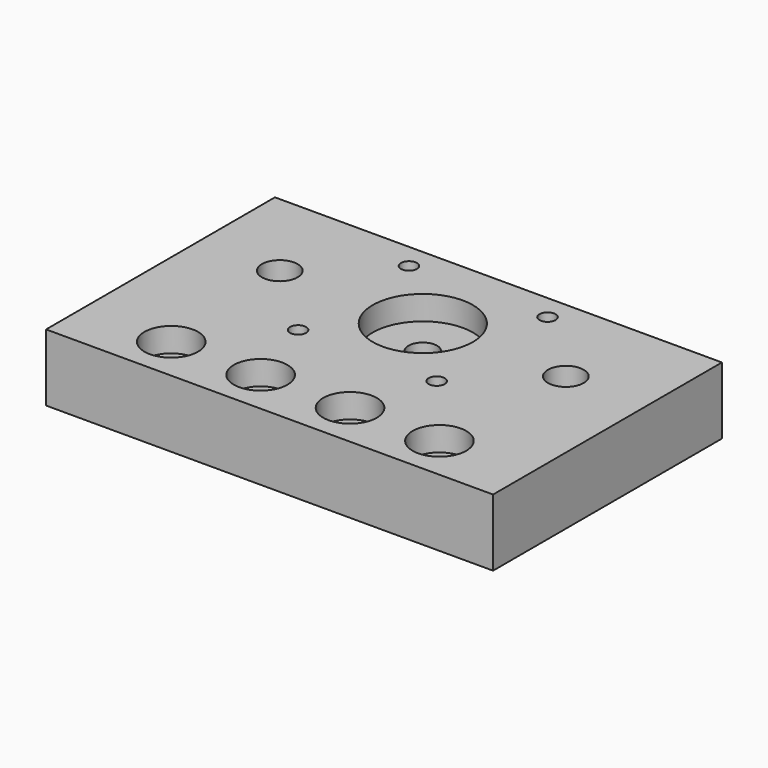
from build123d import *

# Parameters (mm, degrees)
SKETCH_W        = 100
SKETCH_H        = 64
SKETCH_R        = 3.2
SKETCH_R_2      = 1.8
SKETCH_R_3      = 4
PAD_DEPTH       = 15
SKETCH001_R     = 11.2
SKETCH001_R_2   = 6
POCKET_DEPTH    = 5.4
SKETCH002_R     = 3.2
POCKET001_DEPTH = 3.2
SKETCH003_R     = 6
POCKET002_DEPTH = 5.4
SKETCH004_R     = 3.2
POCKET003_DEPTH = 15


with BuildPart() as part:
    # Sketch → Pad (new body)
    with BuildSketch(Plane.XY):
        with Locations((50, 32)):
            Rectangle(SKETCH_W, SKETCH_H)
        with Locations((50, 42.85)):
            Circle(SKETCH_R, mode=Mode.SUBTRACT)
        with Locations((65.5, 58.35)):
            Circle(SKETCH_R_2, mode=Mode.SUBTRACT)
        with Locations((65.5, 27.35)):
            Circle(SKETCH_R_2, mode=Mode.SUBTRACT)
        with Locations((34.5, 27.35)):
            Circle(SKETCH_R_2, mode=Mode.SUBTRACT)
        with Locations((34.5, 58.35)):
            Circle(SKETCH_R_2, mode=Mode.SUBTRACT)
        with Locations((20, 10)):
            Circle(SKETCH_R, mode=Mode.SUBTRACT)
        with Locations((80, 10)):
            Circle(SKETCH_R, mode=Mode.SUBTRACT)
        with Locations((82, 42.85)):
            Circle(SKETCH_R_3, mode=Mode.SUBTRACT)
        with Locations((18, 42.85)):
            Circle(SKETCH_R_3, mode=Mode.SUBTRACT)
    extrude(amount=PAD_DEPTH)

    # Sketch001 (on Face15 of Pad) → Pocket (cut)
    with BuildSketch(Plane.XY.offset(15)):
        with Locations((50, 42.85)):
            Circle(SKETCH001_R)
        with Locations((20, 10)):
            Circle(SKETCH001_R_2)
        with Locations((80, 10)):
            Circle(SKETCH001_R_2)
    extrude(amount=-POCKET_DEPTH, mode=Mode.SUBTRACT)

    # Sketch002 (on Face4 of Pocket) → Pocket001 (cut)
    with BuildSketch(Plane(origin=(0, 0, 0), x_dir=(1, 0, 0), z_dir=(0, 0, -1))):
        with Locations((34.5, -27.35)):
            Circle(SKETCH002_R)
        with Locations((65.5, -27.35)):
            Circle(SKETCH002_R)
        with Locations((34.5, -58.35)):
            Circle(SKETCH002_R)
        with Locations((65.5, -58.35)):
            Circle(SKETCH002_R)
    extrude(amount=-POCKET001_DEPTH, mode=Mode.SUBTRACT)

    # Sketch003 (on Face5 of Pocket001) → Pocket002 (cut)
    with BuildSketch(Plane.XY.offset(15)):
        with Locations((40, 10)):
            Circle(SKETCH003_R)
        with Locations((60, 10)):
            Circle(SKETCH003_R)
    extrude(amount=-POCKET002_DEPTH, mode=Mode.SUBTRACT)

    # Sketch004 (on Face4 of Pocket002) → Pocket003 (cut)
    with BuildSketch(Plane(origin=(0, 0, 0), x_dir=(1, 0, 0), z_dir=(0, 0, -1))):
        with Locations((40, -10)):
            Circle(SKETCH004_R)
        with Locations((60, -10)):
            Circle(SKETCH004_R)
    extrude(amount=-POCKET003_DEPTH, mode=Mode.SUBTRACT)


solid = part.part
